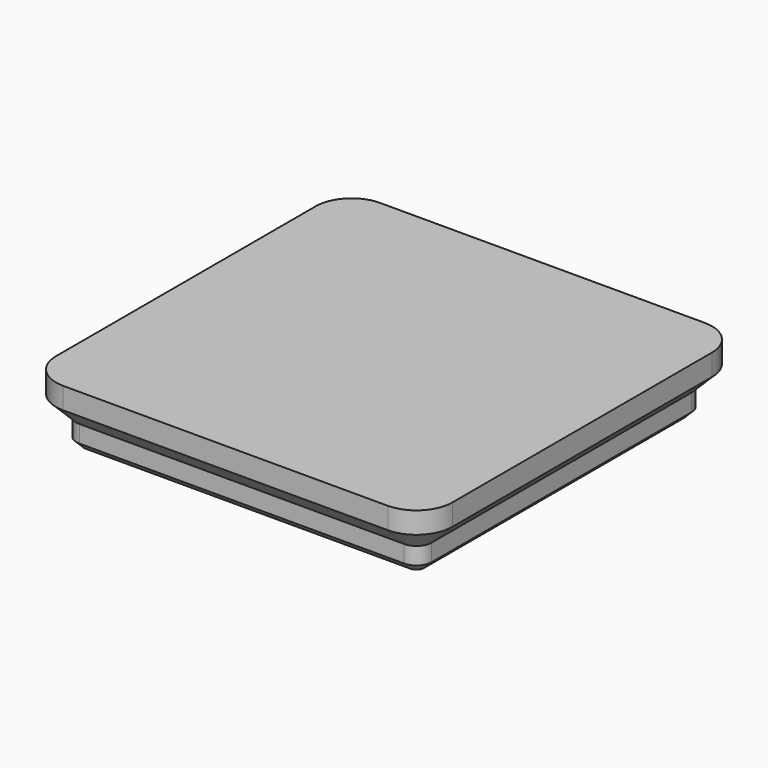
from build123d import *

# Parameters (mm, degrees)
PAD_DEPTH    = 7
SKETCH002_R  = 3.25
POCKET_DEPTH = 2.1


with BuildPart() as part:
    # AdditivePipe: sweep along a path in Sketch001
    with BuildLine(Plane.XY) as additivepipe_path:
        ThreePointArc((0, 3.75), (1.09835, 1.09835), (3.75, 0))
        Line((3.75, 0), (37.75, 0))
        ThreePointArc((37.75, 0), (40.40165, 1.09835), (41.5, 3.75))
        Line((41.5, 3.75), (41.5, 37.75))
        ThreePointArc((41.5, 37.75), (40.40165, 40.40165), (37.75, 41.5))
        Line((37.75, 41.5), (3.75, 41.5))
        ThreePointArc((3.75, 41.5), (1.09835, 40.40165), (0, 37.75))
        Line((0, 37.75), (0, 3.75))
    # Sketch (on Edge2 of Sketch001) → AdditivePipe (sweep)
    with BuildSketch(Plane(origin=(37.75, 0, 0), x_dir=(0, -1, 0), z_dir=(-1, 0, 0))):
        Polygon((-2.95, -7), (-2.15, -6.2), (-2.15, -4.4), (0, -2.25), (0, 0), (-2.95, 0), align=None)
    sweep(path=additivepipe_path.line)

    # Sketch003 (on AdditivePipe) → Pad (new body)
    with BuildSketch(Plane.XY):
        with BuildLine():
            ThreePointArc((3.75, 38.55), (3.184315, 38.315685), (2.95, 37.75))
            Line((2.95, 3.75), (2.95, 37.75))
            ThreePointArc((2.95, 3.75), (3.184315, 3.184315), (3.75, 2.95))
            Line((37.75, 2.95), (3.75, 2.95))
            ThreePointArc((37.75, 2.95), (38.315685, 3.184315), (38.55, 3.75))
            Line((38.55, 37.75), (38.55, 3.75))
            ThreePointArc((38.55, 37.75), (38.315685, 38.315685), (37.75, 38.55))
            Line((3.75, 38.55), (37.75, 38.55))
        make_face()
    extrude(amount=-PAD_DEPTH)

    # Sketch002 (on Face2 of Pad) → Pocket (cut)
    with BuildSketch(Plane(origin=(0, 41.5, -7), x_dir=(1, 0, 0), z_dir=(0, 0, -1))):
        with Locations((7.75, 7.75)):
            Circle(SKETCH002_R)
        with Locations((33.75, 7.75)):
            Circle(SKETCH002_R)
        with Locations((33.75, 33.75)):
            Circle(SKETCH002_R)
        with Locations((7.75, 33.75)):
            Circle(SKETCH002_R)
    extrude(amount=-POCKET_DEPTH, mode=Mode.SUBTRACT)


solid = part.part
